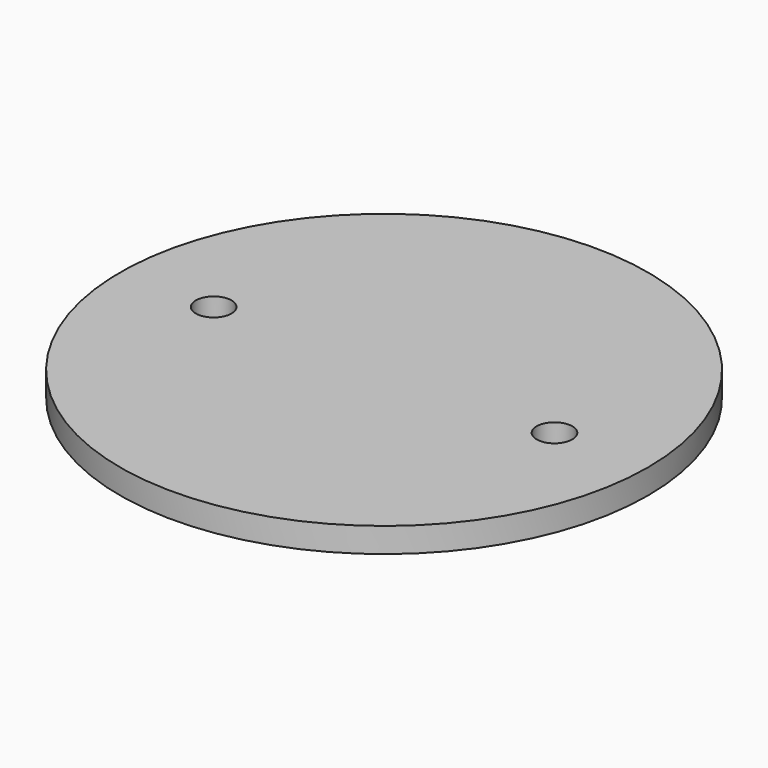
from build123d import *

# Parameters (mm, degrees)
SKETCH_R   = 27.051
SKETCH_R_2 = 1.8288
PAD_DEPTH  = 2.54


with BuildPart() as part:
    # Sketch → Pad (new body)
    with BuildSketch(Plane.XY):
        Circle(SKETCH_R)
        with Locations((-17.4625, 0)):
            Circle(SKETCH_R_2, mode=Mode.SUBTRACT)
        with Locations((17.4625, 0)):
            Circle(SKETCH_R_2, mode=Mode.SUBTRACT)
    extrude(amount=PAD_DEPTH)


solid = part.part
